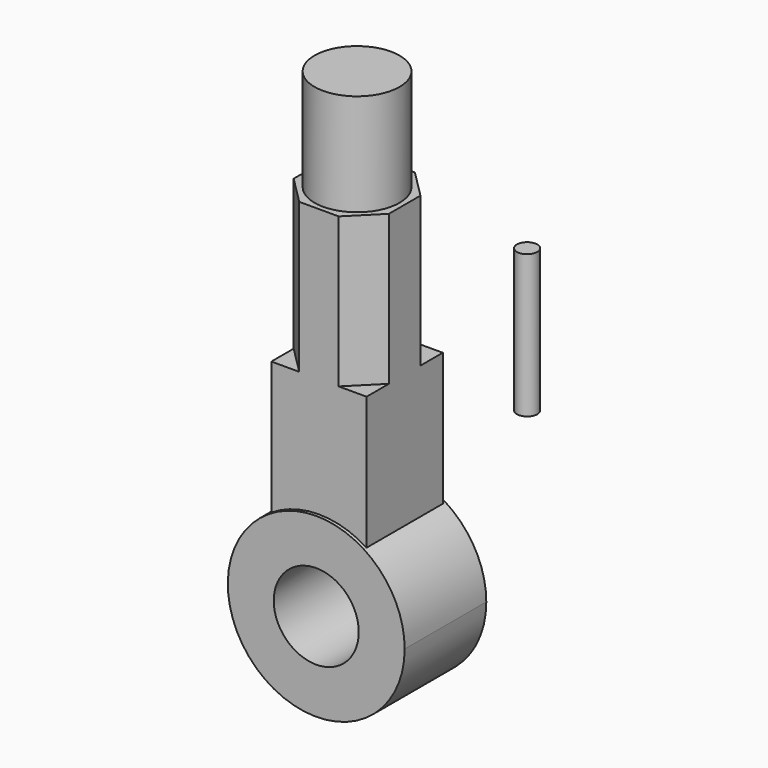
from build123d import *

# Parameters (mm, degrees)
F0_R     = 12.5
F1_DEPTH = 15
F2_DEPTH = 14
F4_DEPTH = 44
F0_W     = 12.5
F0_H     = 30
F6_R     = 3
F7_DEPTH = 42


with BuildPart() as f1:
    # F0 (on Front) → F1 (new body, symmetric)
    with BuildSketch(Plane.XZ):
        with BuildLine():
            ThreePointArc((26, -63.454451), (22.803509, -50.964455), (14, -41.545549))
            ThreePointArc((14, -41.545549), (0, -37.454451), (-14, -41.545549))
            ThreePointArc((-14, -41.545549), (-12.489996, -86.25796), (26, -63.454451))
        make_face()
        with Locations((0, -63.454451)):
            Circle(F0_R, mode=Mode.SUBTRACT)
    extrude(amount=F1_DEPTH, both=True)

    # F0 (on Front) → F2 (join, symmetric)
    with BuildSketch(Plane.XZ):
        with BuildLine():
            Line((14, -41.545549), (14, -2.454451))
            Line((14, -2.454451), (-14, -2.454451))
            Line((-14, -2.454451), (-14, -41.545549))
            ThreePointArc((-14, -41.545549), (0, -37.454451), (14, -41.545549))
        make_face()
    extrude(amount=F2_DEPTH, both=True)

    # F3 (on face) → F4 (join)
    with BuildSketch(Plane.XY.offset(-2.454451)):
        Polygon((14, 5.79899), (5.79899, 14), (-5.79899, 14), (-14, 5.79899), (-14, -5.79899), (-5.79899, -14), (5.79899, -14), (14, -5.79899), align=None)
    extrude(amount=F4_DEPTH)

    # F0 (on Front) → F5 (revolve)
    with BuildSketch(Plane.XZ):
        with Locations((6.25, 56.545549)):
            Rectangle(F0_W, F0_H)
    revolve(axis=Axis((0, 0, 56.545549), (0, 0, 1)))


with BuildPart() as f7:
    # F6 (on Top) → F7 (new body)
    with BuildSketch(Plane.XY):
        with Locations((50, 0)):
            Circle(F6_R)
    extrude(amount=F7_DEPTH)


solid = Compound([f1.part, f7.part])
